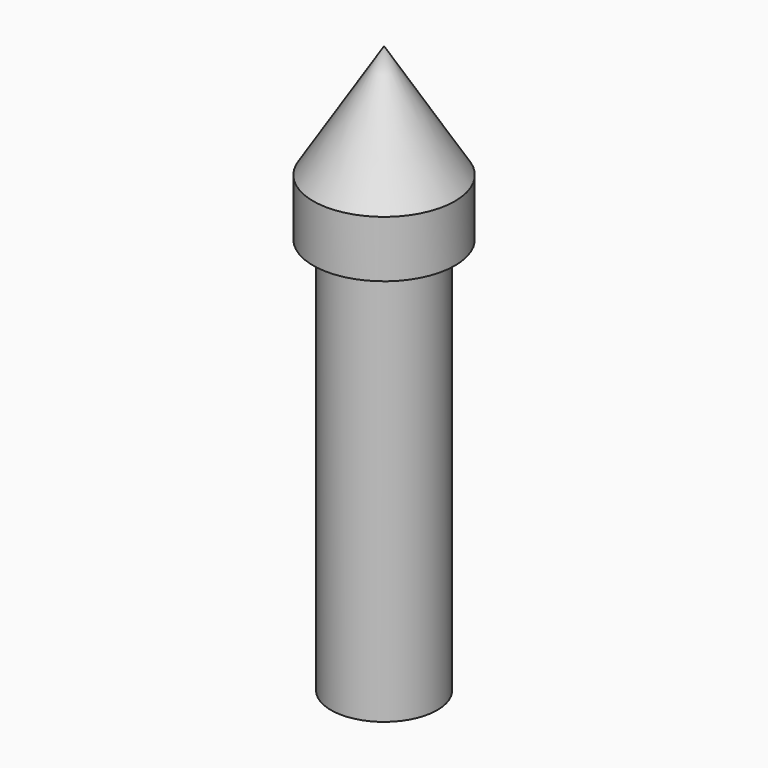
from build123d import *

# Parameters (mm, degrees)
F0_W     = 4.7625
F0_H     = 35.56
F2_R     = 2.54
F3_DEPTH = 7.62


with BuildPart() as f1:
    # F0 (on Front) → F1 (revolve)
    with BuildSketch(Plane.XZ):
        Polygon((0, 25.4), (0, 15.24), (6.35, 15.24), align=None)
        Polygon((0, 10.16), (4.7625, 10.16), (6.35, 10.16), (6.35, 15.24), (0, 15.24), align=None)
        with Locations((2.38125, -7.62)):
            Rectangle(F0_W, F0_H)
    revolve(axis=Axis((0, 0, 0), (0, 0, -1)))

    # F2 (on Right) → F3 (cut)
    with BuildSketch(Plane.YZ):
        with Locations((0, -17.78)):
            Circle(F2_R)
    extrude(amount=-F3_DEPTH, mode=Mode.SUBTRACT)


solid = f1.part
